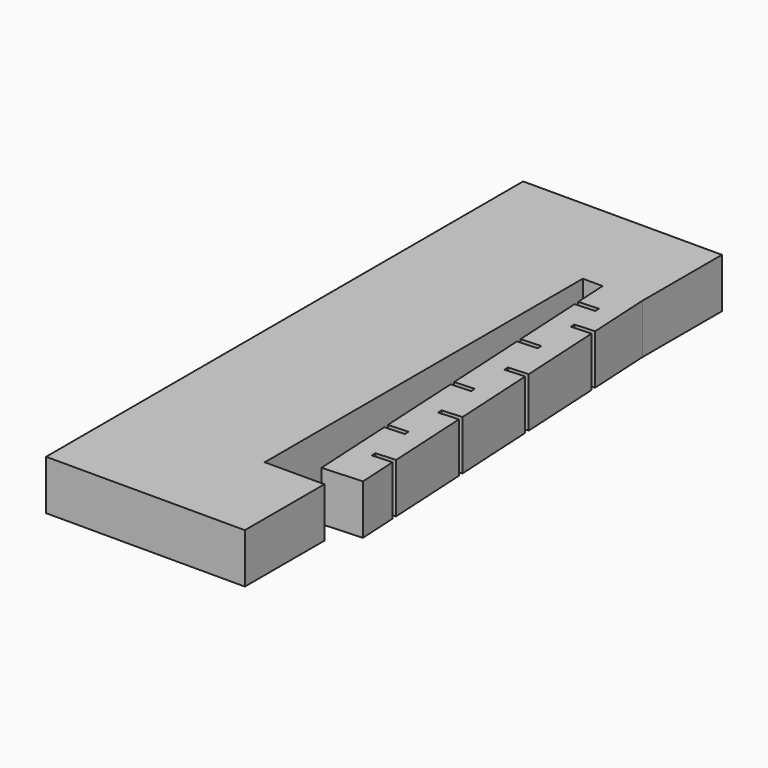
from build123d import *

# Parameters (mm, degrees)
F1_DEPTH = 3.175
F3_DEPTH = 3.176


with BuildPart() as f1:
    # F0 (on Top) → F1 (new body)
    with BuildSketch(Plane.XY):
        Polygon((0, 38.1), (0, 0), (12.7, 0), (12.7, 6.35), (10.16, 6.35), (8.89, 6.35), (8.89, 31.75), (10.16, 31.75), (11.4725997902, 7.6557271994), (14.0088390323, 7.7938955983), (12.7, 31.75), (12.7, 38.1), align=None)
    extrude(amount=F1_DEPTH)

    # F2 (on face) → F3 (cut, through all)
    with BuildSketch(Plane.XY.offset(3.175)):
        Polygon((12.6021534372, 10.2610289821), (13.8702622136, 10.3303119605), (13.8536342988, 10.6346580668), (12.5855255224, 10.5653750884), align=None)
        Polygon((11.1631134086, 13.3367042667), (11.1796827872, 13.0325543411), (12.4478500998, 13.1016411387), (12.431222185, 13.4059872451), align=None)
        Polygon((13.5596651672, 16.0152702235), (13.5430372523, 16.3196163298), (12.2749284759, 16.2503333514), (12.2915563907, 15.9459872451), align=None)
        Polygon((12.1214685819, 19.0909911518), (10.8533966835, 19.0219095522), (10.8699877202, 18.7173620671), (12.1380964967, 18.7866450455), align=None)
        Polygon((13.249065627, 21.7002741302), (13.2324377121, 22.0046202366), (11.9643289357, 21.9353372582), (11.9809568505, 21.6309911518), align=None)
        Polygon((11.8116096197, 24.7796859673), (10.5434899986, 24.7106017678), (10.5600702065, 24.4062530587), (11.8281898276, 24.4753372582), align=None)
        Polygon((11.6701556579, 27.3196859673), (12.9382644344, 27.3889689457), (12.9216365196, 27.693315052), (11.6535277431, 27.6240320736), align=None)
        Polygon((10.2744032886, 29.6499965832), (10.2909834965, 29.3456478741), (11.5591031175, 29.4147320736), (11.5425229097, 29.7190807827), align=None)
        Polygon((12.7241392034, 7.7239081478), (11.4725997902, 7.6557271994), (11.4725997902, 7.3504752393), (12.7407194113, 7.4195594387), align=None)
        Polygon((14.083071413, 6.4351963108), (14.0664434982, 6.7395424171), (12.7983347217, 6.6702594387), (12.8149626365, 6.3659133324), align=None)
    extrude(amount=-F3_DEPTH, mode=Mode.SUBTRACT)


solid = f1.part
